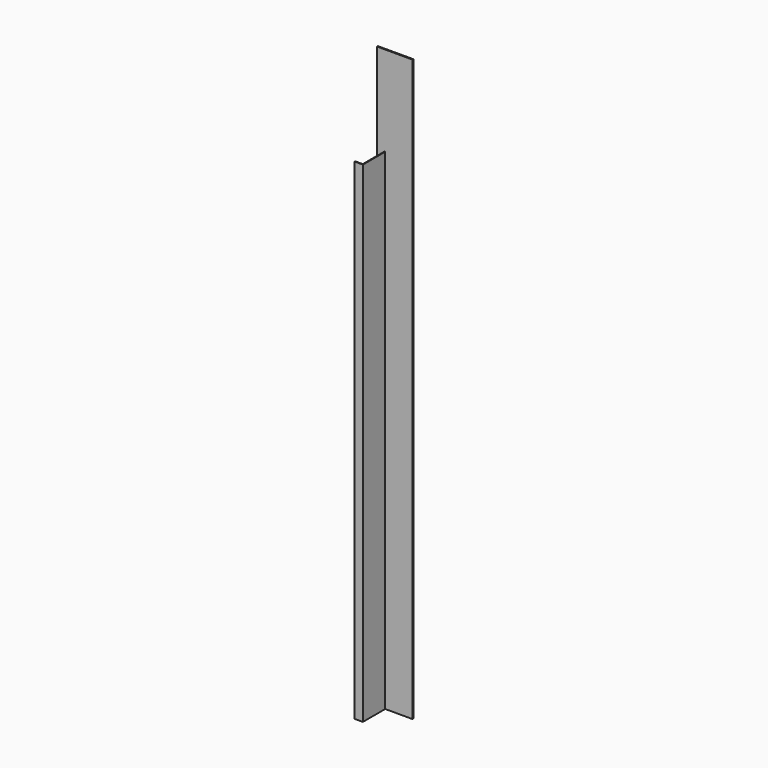
from build123d import *

# Parameters (mm, degrees)
F1_DEPTH = 4572
F3_DEPTH = 838.2


with BuildPart() as f1:
    # F0 (on Top) → F1 (new body)
    with BuildSketch(Plane.XY):
        Polygon((0, 6.35), (0, 0), (76.2, 0), (76.2, 260.35), (330.2, 260.35), (330.2, 269.875), (0, 269.875), (0, 260.35), (69.85, 260.35), (69.85, 6.35), align=None)
    extrude(amount=F1_DEPTH)

    # F2 (on face) → F3 (join)
    with BuildSketch(Plane.XY.offset(4572)):
        Polygon((330.2, 269.875), (0, 269.875), (0, 260.35), (69.85, 260.35), (76.2, 260.35), (330.2, 260.35), align=None)
    extrude(amount=F3_DEPTH)


solid = f1.part
